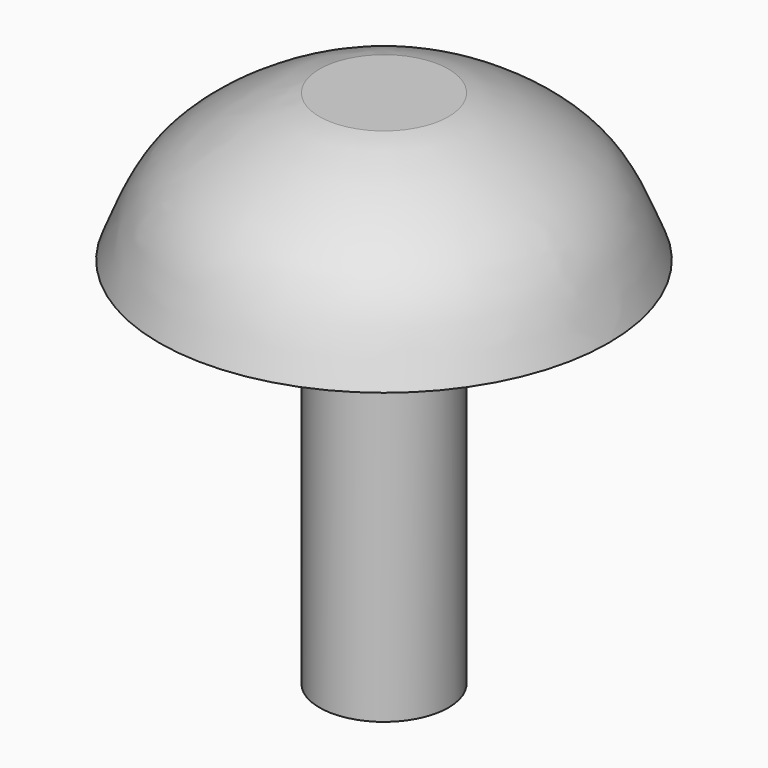
from build123d import *


with BuildPart() as f1:
    # F0 (on Front) → F1 (revolve)
    with BuildSketch(Plane.XZ):
        with BuildLine():
            Line((0, 12.7), (0, 0))
            Line((0, 0), (1.5748, 0))
            Line((1.5748, 0), (1.5748, 9.1110188514))
            Line((1.5748, 9.1110188514), (5.4881703109, 9.1110188514))
            add(Edge.make_bspline(
                [(5.4881703109, 9.1110188514), (5.1463357238, 9.9374517907), (4.7142359861, 11.3445059879), (2.2832024785, 12.5874089086), (1.5748, 12.7)],
                knots=[0, 0, 0, 0, 0.4690991907, 1, 1, 1, 1], degree=3))
            Line((1.5748, 12.7), (0, 12.7))
        make_face()
    revolve(axis=Axis((0, 0, 6.35), (0, 0, 1)))


solid = f1.part
